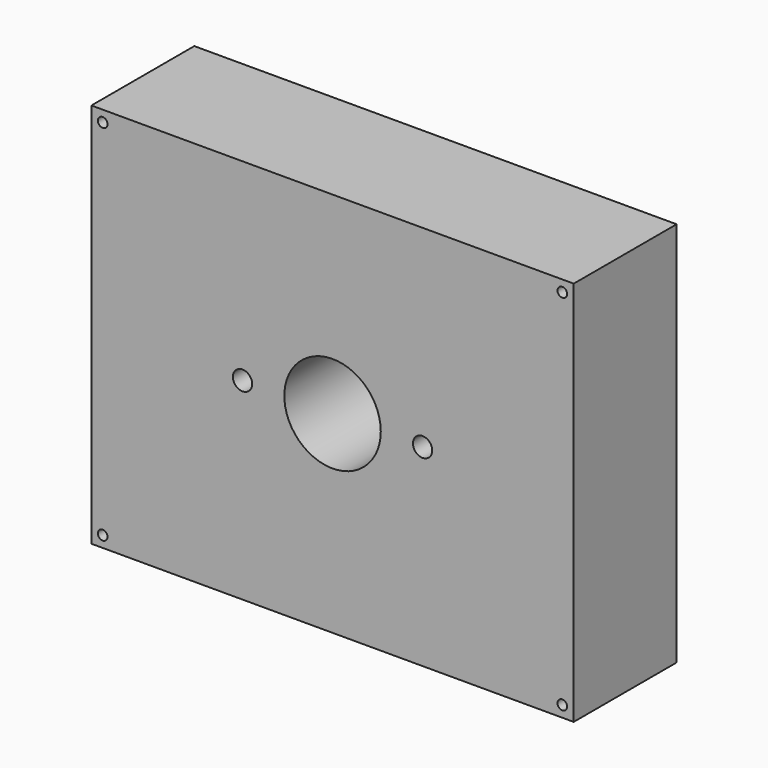
from build123d import *

# Parameters (mm, degrees)
F0_R     = 0.75
F0_R_2   = 1.5
F0_R_3   = 7.5
F1_DEPTH = 10
F2_T     = -2


with BuildPart() as f1:
    # F0 (on Front) → F1 (new body, symmetric)
    with BuildSketch(Plane.XZ):
        Polygon((37.5, 29), (37.5, 30), (-36.5, 30), (-37.5, 30), (-37.5, -29), (-37.5, -29.021632), (-37.5, -30), (37.488481, -30), (37.5, -30), align=None)
        with Locations((-35.74789, -28.249304)):
            Circle(F0_R, mode=Mode.SUBTRACT)
        with Locations((35.728708, -28.240002)):
            Circle(F0_R, mode=Mode.SUBTRACT)
        with Locations((-14, 0)):
            Circle(F0_R_2, mode=Mode.SUBTRACT)
        with Locations((-35.742357, 28.246674)):
            Circle(F0_R, mode=Mode.SUBTRACT)
        Circle(F0_R_3, mode=Mode.SUBTRACT)
        with Locations((14, 0)):
            Circle(F0_R_2, mode=Mode.SUBTRACT)
        with Locations((35.729614, 28.241964)):
            Circle(F0_R, mode=Mode.SUBTRACT)
    extrude(amount=F1_DEPTH, both=True)

    # F2
    f2_openings = [f1.faces().sort_by_distance(p)[0] for p in [
        (0, 10, 29.039531),
    ]]
    offset(amount=F2_T, openings=f2_openings)


solid = f1.part
